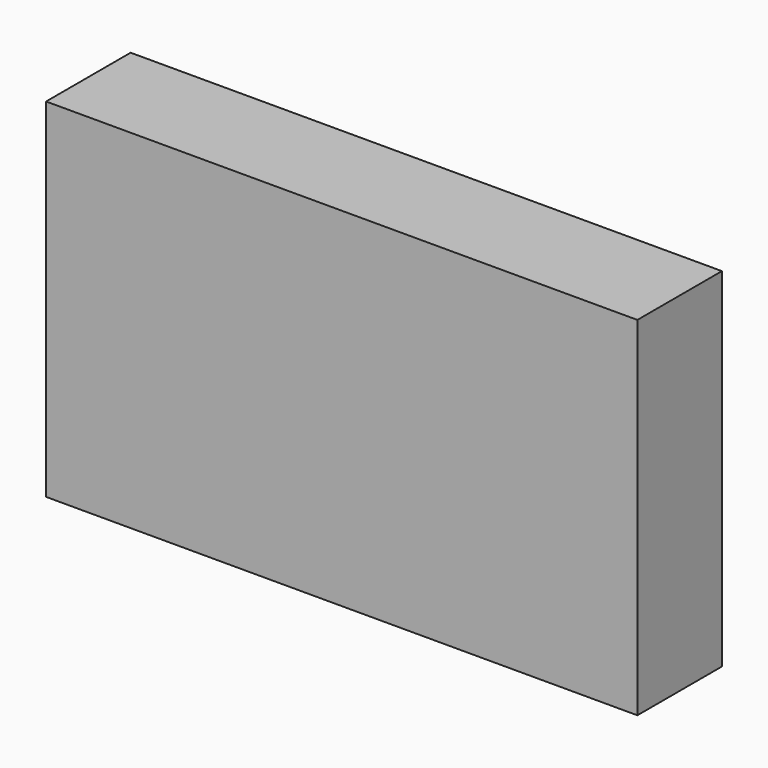
from build123d import *

# Parameters (mm, degrees)
F0_W     = 116.7279371016
F0_H     = 83.6705883693
F0_R     = 5.588
F1_DEPTH = 25.4
F2_DEPTH = 6.35
F3_DEPTH = 25.4


with BuildPart() as f1:
    # F0 (on Front) → F1 (new body)
    with BuildSketch(Plane.XZ):
        with Locations((5.224019289, 15.672063455)):
            Rectangle(F0_W, F0_H)
        with Locations((-33.1561258105, 15.672063455)):
            Circle(F0_R, mode=Mode.SUBTRACT)
        with Locations((30.3438741895, 15.672063455)):
            Circle(F0_R, mode=Mode.SUBTRACT)
        with Locations((-33.1561258105, 15.672063455)):
            Circle(F0_R)
        with Locations((30.3438741895, 15.672063455)):
            Circle(F0_R)
    extrude(amount=F1_DEPTH)

    # F0 (on Front) → F2 (join)
    with BuildSketch(Plane.XZ):
        with Locations((30.3438741895, 15.672063455)):
            Circle(F0_R)
        with Locations((-33.1561258105, 15.672063455)):
            Circle(F0_R)
    extrude(amount=-F2_DEPTH)

    # F3 (add): a face of the model
    f3_faces = [f1.faces().sort_by_distance(p)[0] for p in [
        (-53.1399492618, -12.7, 15.672063455),
    ]]
    extrude(f3_faces, amount=F3_DEPTH)


solid = f1.part
